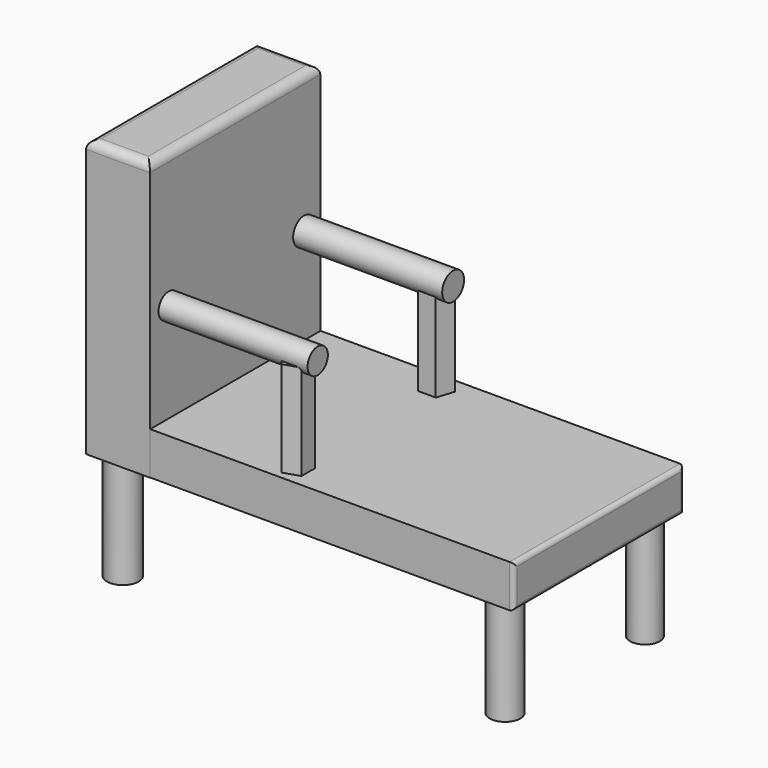
from build123d import *

# Parameters (mm, degrees)
F0_W     = 100
F0_H     = 50
F1_DEPTH = 10
F2_R     = 3.601713
F2_R_2   = 3.485572
F2_R_3   = 3.723077
F2_R_4   = 4
F3_DEPTH = 25
F4_W     = 15
F4_H     = 50
F5_DEPTH = 65
F6_R     = 2.976027
F6_R_2   = 3.210208
F7_DEPTH = 35
F9_DEPTH = 22.4
F10_R    = 2
F11_R    = 1


with BuildPart() as f1:
    # F0 (on Top) → F1 (new body)
    with BuildSketch(Plane.XY):
        with Locations((7.828464, 4.295976)):
            Rectangle(F0_W, F0_H)
    extrude(amount=F1_DEPTH)

    # F2 (on face) → F3 (join)
    with BuildSketch(Plane(origin=(0, 0, 0), x_dir=(1, 0, 0), z_dir=(0, 0, -1))):
        with Locations((51.622987, 15.514113)):
            Circle(F2_R)
        with Locations((52.530244, -24.405243)):
            Circle(F2_R_2)
        with Locations((-37.106857, 16.784275)):
            Circle(F2_R_3)
        with Locations((-37.832662, -25.13105)):
            Circle(F2_R_4)
    extrude(amount=F3_DEPTH)

    # F4 (on Top) → F5 (join)
    with BuildSketch(Plane.XY):
        with Locations((-35.050407, 4.223788)):
            Rectangle(F4_W, F4_H)
    extrude(amount=F5_DEPTH)

    # F6 (on face) → F7 (join)
    with BuildSketch(Plane.YZ.offset(-27.550407)):
        with Locations((-15.28226, 33.31653)):
            Circle(F6_R)
        with Locations((24.455646, 32.590725)):
            Circle(F6_R_2)
    extrude(amount=F7_DEPTH)

    # F8 (on face) → F9 (join)
    with BuildSketch(Plane.XY.offset(10)):
        Polygon((5.741771, -17.913366), (5.741771, -13.958396), (1.980372, -12.736244), (-0.344301, -15.935881), (1.980372, -19.135518), align=None)
        Polygon((1.273584, 21.806058), (5.492217, 21.806058), (6.795846, 25.818216), (3.3829, 28.297866), (-0.030045, 25.818216), align=None)
    extrude(amount=F9_DEPTH)

    # F10
    f10_edges = [f1.edges().sort_by_distance(p)[0] for p in [
        (-42.550407, 4.223788, 65),
        (-35.050407, -20.776212, 65),
        (-27.550407, 4.223788, 65),
        (-35.050407, 29.223788, 65),
    ]]
    fillet(f10_edges, radius=F10_R)

    # F11
    f11_edges = [f1.edges().sort_by_distance(p)[0] for p in [
        (57.828464, -20.704024, 5),
        (57.828464, 29.295976, 5),
        (57.828464, 4.295976, 0),
        (57.828464, 4.295976, 10),
    ]]
    fillet(f11_edges, radius=F11_R)


solid = f1.part
